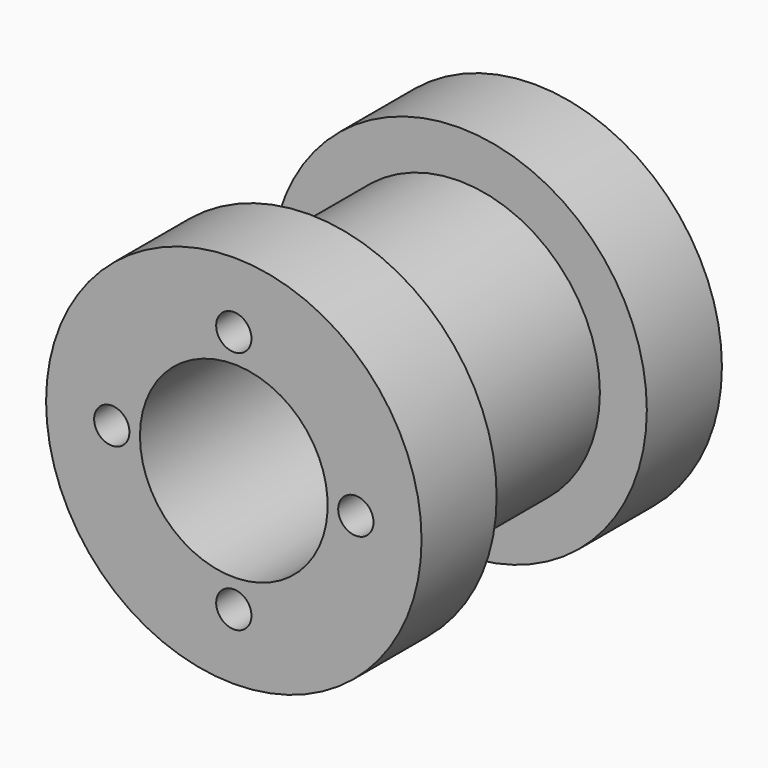
from build123d import *

# Parameters (mm, degrees)
F0_R     = 12.7
F1_DEPTH = 6.35
F2_R     = 9.525
F3_DEPTH = 12.7
F4_R     = 12.7
F5_DEPTH = 6.35
F7_D     = 2.3876
F7_DEPTH = 3.175
F7_TIP   = 0.717307407
F9_D     = 12.7


with BuildPart() as f1:
    # F0 (on Front) → F1 (new body)
    with BuildSketch(Plane.XZ):
        Circle(F0_R)
    extrude(amount=F1_DEPTH)

    # F2 (on face) → F3 (join)
    with BuildSketch(Plane.XZ.offset(6.35)):
        Circle(F2_R)
    extrude(amount=F3_DEPTH)

    # F4 (on face) → F5 (join)
    with BuildSketch(Plane.XZ.offset(19.05)):
        Circle(F4_R)
    extrude(amount=F5_DEPTH)

    # F7
    with Locations(Plane.XZ.offset(25.4)):
        with Locations((-8.255, 0), (0, 8.255), (8.255, 0), (0, -8.255)):
            Hole(F7_D / 2, depth=F7_DEPTH)
            with Locations((0, 0, -(F7_DEPTH + F7_TIP / 2))):  # 118° drill point
                Cone(0, F7_D / 2, F7_TIP, mode=Mode.SUBTRACT)

    # F9 (through all)
    with Locations(Plane.XZ.offset(25.4)):
        with Locations((0, 0)):
            Hole(F9_D / 2)


solid = f1.part
